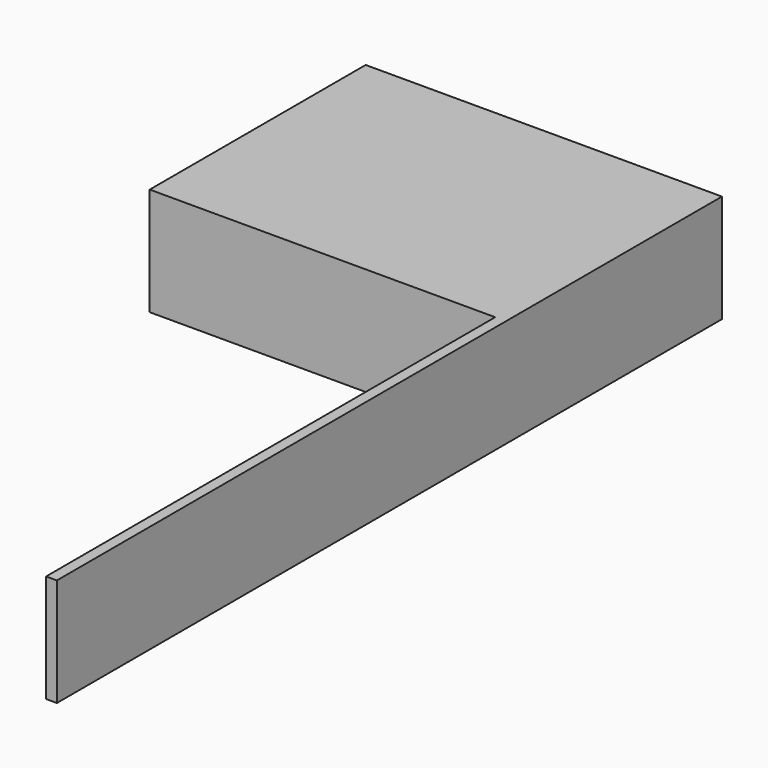
from build123d import *

# Parameters (mm, degrees)
F0_W     = 32
F0_H     = 10
F1_DEPTH = 25
F2_W     = 52
F2_H     = 10
F2_W_2   = 25
F3_DEPTH = 1


with BuildPart() as f1:
    # F0 (on Front) → F1 (new body)
    with BuildSketch(Plane.XZ):
        with Locations((-4.601419, 2.851491)):
            Rectangle(F0_W, F0_H)
    extrude(amount=F1_DEPTH)

    # F2 (on face) → F3 (join)
    with BuildSketch(Plane.YZ.offset(11.398581)):
        with Locations((-51, 2.851491)):
            Rectangle(F2_W, F2_H)
        with Locations((-12.5, 2.851491)):
            Rectangle(F2_W_2, F2_H)
    extrude(amount=F3_DEPTH)


solid = f1.part
